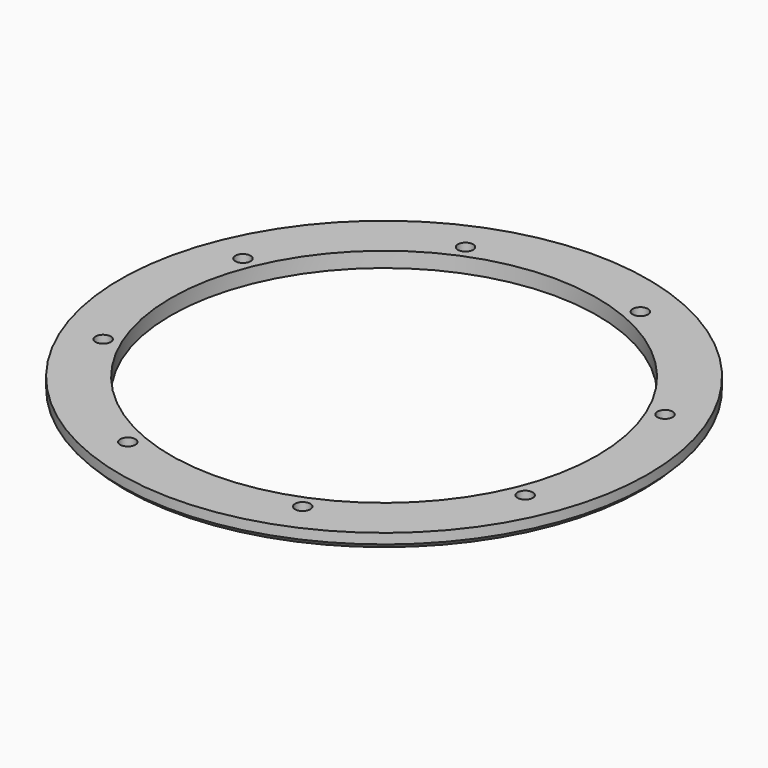
from build123d import *

# Parameters (mm, degrees)
CYLINDER658_R               = 1.5
CYLINDER658_DEPTH           = 20
CYLINDER658_PLACEMENT_ANGLE = 45
CYLINDER659_R               = 1.5
CYLINDER659_DEPTH           = 20
CYLINDER652_R               = 1.5
CYLINDER652_DEPTH           = 20
CYLINDER652_PLACEMENT_ANGLE = 135
CYLINDER655_R               = 1.5
CYLINDER655_DEPTH           = 20
CYLINDER657_R               = 1.5
CYLINDER657_DEPTH           = 20
CYLINDER657_PLACEMENT_ANGLE = 225
CYLINDER654_R               = 1.5
CYLINDER654_DEPTH           = 20
CYLINDER656_R               = 1.5
CYLINDER656_DEPTH           = 20
CYLINDER656_PLACEMENT_ANGLE = 45
CYLINDER653_R               = 1.5
CYLINDER653_DEPTH           = 20
COMPOUND660_PLACEMENT_ANGLE = 22.5
TUBE040_R                   = 52
TUBE040_R_2                 = 42
TUBE040_DEPTH               = 3
CHAMFER018_SIZE             = 1


with BuildPart() as obj1:
    # Cylinder658 → Cylinder658 (new body)
    with BuildSketch(Plane.XY):
        Circle(CYLINDER658_R)
    extrude(amount=CYLINDER658_DEPTH)


with BuildPart() as obj1_1:
    # Cylinder658 placement: moved
    add(obj1.part.moved(Location((-31.819805, 31.819805, -18))).rotate(Axis((-31.819805, 31.819805, -18), (0, 0, 1)), CYLINDER658_PLACEMENT_ANGLE))


with BuildPart() as obj2:
    # Cylinder659 → Cylinder659 (new body)
    with BuildSketch(Plane(origin=(-45, 0, -18), x_dir=(0, 1, 0), z_dir=(0, 0, 1))):
        Circle(CYLINDER659_R)
    extrude(amount=CYLINDER659_DEPTH)


with BuildPart() as obj3:
    # Cylinder652 → Cylinder652 (new body)
    with BuildSketch(Plane.XY):
        Circle(CYLINDER652_R)
    extrude(amount=CYLINDER652_DEPTH)


with BuildPart() as obj3_1:
    # Cylinder652 placement: moved
    add(obj3.part.moved(Location((-31.819805, -31.819805, -18))).rotate(Axis((-31.819805, -31.819805, -18), (0, 0, 1)), CYLINDER652_PLACEMENT_ANGLE))


with BuildPart() as obj4:
    # Cylinder655 → Cylinder655 (new body)
    with BuildSketch(Plane(origin=(0, -45, -18), x_dir=(-1, 0, 0), z_dir=(0, 0, 1))):
        Circle(CYLINDER655_R)
    extrude(amount=CYLINDER655_DEPTH)


with BuildPart() as obj5:
    # Cylinder657 → Cylinder657 (new body)
    with BuildSketch(Plane.XY):
        Circle(CYLINDER657_R)
    extrude(amount=CYLINDER657_DEPTH)


with BuildPart() as obj5_1:
    # Cylinder657 placement: moved
    add(obj5.part.moved(Location((31.819805, -31.819805, -18))).rotate(Axis((31.819805, -31.819805, -18), (0, 0, 1)), CYLINDER657_PLACEMENT_ANGLE))


with BuildPart() as obj6:
    # Cylinder654 → Cylinder654 (new body)
    with BuildSketch(Plane(origin=(45, 0, -18), x_dir=(0, -1, 0), z_dir=(0, 0, 1))):
        Circle(CYLINDER654_R)
    extrude(amount=CYLINDER654_DEPTH)


with BuildPart() as obj7:
    # Cylinder656 → Cylinder656 (new body)
    with BuildSketch(Plane.XY):
        Circle(CYLINDER656_R)
    extrude(amount=CYLINDER656_DEPTH)


with BuildPart() as obj7_1:
    # Cylinder656 placement: moved
    add(obj7.part.moved(Location((31.819805, 31.819805, -18))).rotate(Axis((31.819805, 31.819805, -18), (0, 0, -1)), CYLINDER656_PLACEMENT_ANGLE))


with BuildPart() as compound660:
    # Cylinder653 → Cylinder653 (new body)
    with BuildSketch(Plane(origin=(0, 45, -18), x_dir=(1, 0, 0), z_dir=(0, 0, 1))):
        Circle(CYLINDER653_R)
    extrude(amount=CYLINDER653_DEPTH)

    # Compound660: union obj1, obj2, obj3, obj4, obj5, obj6, obj7
    add(obj1_1.part)
    add(obj2.part)
    add(obj3_1.part)
    add(obj4.part)
    add(obj5_1.part)
    add(obj6.part)
    add(obj7_1.part)


with BuildPart() as compound660_1:
    # Compound660 placement: moved
    add(compound660.part.rotate(Axis((0, 0, 0), (0, 0, 1)), COMPOUND660_PLACEMENT_ANGLE))


with BuildPart() as j_max_encoder_belt_ring_a:
    # Tube040 → Tube040 (new body)
    with BuildSketch(Plane.XY.offset(-11)):
        Circle(TUBE040_R)
        Circle(TUBE040_R_2, mode=Mode.SUBTRACT)
    extrude(amount=TUBE040_DEPTH)

    # Cut507: cut Compound660
    add(compound660_1.part, mode=Mode.SUBTRACT)


with BuildPart() as j_max_encoder_belt_ring_a_1:
    # Cut507 placement: moved
    add(j_max_encoder_belt_ring_a.part.moved(Location((0, 0, -4))))

    # Chamfer018
    chamfer018_edges = [j_max_encoder_belt_ring_a_1.edges().sort_by_distance(p)[0] for p in [
        (-52, 0, -15),
    ]]
    chamfer(chamfer018_edges, length=CHAMFER018_SIZE)


with BuildPart() as j_max_encoder_belt_ring_a_2:
    # Chamfer018 placement: moved
    add(j_max_encoder_belt_ring_a_1.part.moved(Location((0, 0, -2))))


solid = j_max_encoder_belt_ring_a_2.part
